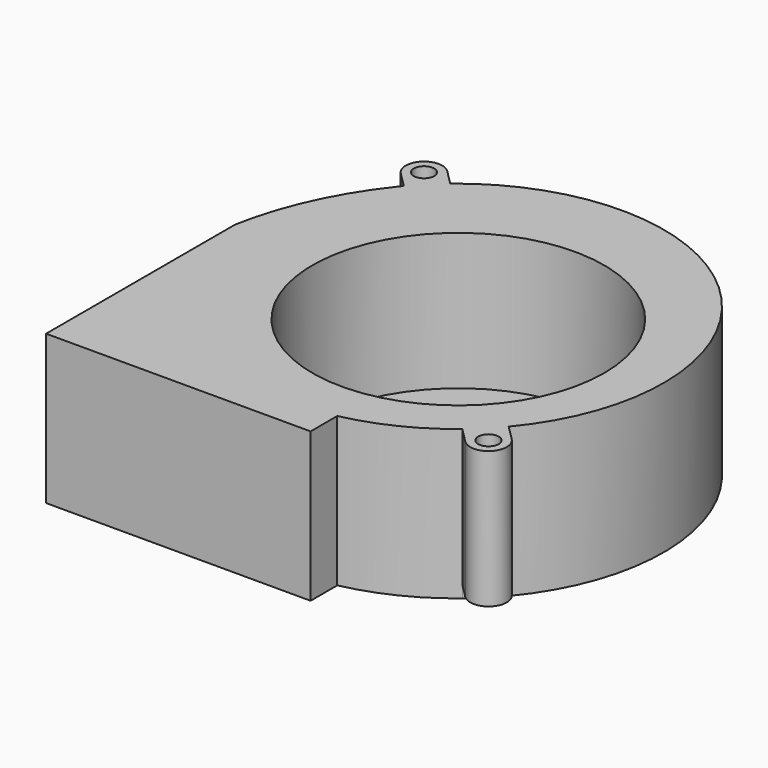
from build123d import *

# Parameters (mm, degrees)
F0_R     = 32
F0_R_2   = 2.25
F1_DEPTH = 30
F2_DEPTH = 2.7


with BuildPart() as f1:
    # F0 (on Top) → F1 (new body)
    with BuildSketch(Plane.XY):
        with BuildLine():
            Line((-48.5, 0), (-48.5, -51.8))
            Line((-48.5, -51.8), (9.5, -51.8))
            Line((9.5, -51.8), (9.5, -44.4971909226))
            ThreePointArc((9.5, -44.4971909226), (19.9487496546, -40.8937328599), (29.2203638041, -34.8772180536))
            ThreePointArc((29.2203638041, -34.8772180536), (32.173358544, -32.173358544), (34.8772180536, -29.2203638041))
            ThreePointArc((34.8772180536, -29.2203638041), (32.173358544, 32.173358544), (-29.2203638041, 34.8772180536))
            ThreePointArc((-29.2203638041, 34.8772180536), (-32.173358544, 32.173358544), (-34.8772180536, 29.2203638041))
            ThreePointArc((-34.8772180536, 29.2203638041), (-35.2558555468, 28.7623825449), (-35.6284796081, 28.2994954162))
            ThreePointArc((-35.6284796081, 28.2994954162), (-43.8019044029, 14.9400934365), (-48.5, 0))
        make_face()
        with Locations((3.25, -3.5)):
            Circle(F0_R, mode=Mode.SUBTRACT)
        with BuildLine():
            ThreePointArc((34.8772180536, -29.2203638041), (32.173358544, -32.173358544), (29.2203638041, -34.8772180536))
            Line((29.2203638041, -34.8772180536), (32.5269119346, -38.1837661841))
            ThreePointArc((32.5269119346, -38.1837661841), (38.1837661841, -38.1837661841), (38.1837661841, -32.5269119346))
            Line((38.1837661841, -32.5269119346), (34.8772180536, -29.2203638041))
        make_face()
        with Locations((35.3553390593, -35.3553390593)):
            Circle(F0_R_2, mode=Mode.SUBTRACT)
        with BuildLine():
            Line((-38.1837661841, 32.5269119346), (-34.8772180536, 29.2203638041))
            ThreePointArc((-34.8772180536, 29.2203638041), (-32.173358544, 32.173358544), (-29.2203638041, 34.8772180536))
            Line((-29.2203638041, 34.8772180536), (-32.5269119346, 38.1837661841))
            ThreePointArc((-32.5269119346, 38.1837661841), (-38.1837661841, 38.1837661841), (-38.1837661841, 32.5269119346))
        make_face()
        with Locations((-35.3553390593, 35.3553390593)):
            Circle(F0_R_2, mode=Mode.SUBTRACT)
    extrude(amount=F1_DEPTH)

    # F0 (on Top) → F2 (join)
    with BuildSketch(Plane.XY):
        with BuildLine():
            Line((-48.5, 0), (-48.5, -51.8))
            Line((-48.5, -51.8), (9.5, -51.8))
            Line((9.5, -51.8), (9.5, -44.4971909226))
            ThreePointArc((9.5, -44.4971909226), (19.9487496546, -40.8937328599), (29.2203638041, -34.8772180536))
            ThreePointArc((29.2203638041, -34.8772180536), (32.173358544, -32.173358544), (34.8772180536, -29.2203638041))
            ThreePointArc((34.8772180536, -29.2203638041), (32.173358544, 32.173358544), (-29.2203638041, 34.8772180536))
            ThreePointArc((-29.2203638041, 34.8772180536), (-32.173358544, 32.173358544), (-34.8772180536, 29.2203638041))
            ThreePointArc((-34.8772180536, 29.2203638041), (-35.2558555468, 28.7623825449), (-35.6284796081, 28.2994954162))
            ThreePointArc((-35.6284796081, 28.2994954162), (-43.8019044029, 14.9400934365), (-48.5, 0))
        make_face()
        with Locations((3.25, -3.5)):
            Circle(F0_R, mode=Mode.SUBTRACT)
        with Locations((3.25, -3.5)):
            Circle(F0_R)
    extrude(amount=-F2_DEPTH)


solid = f1.part
